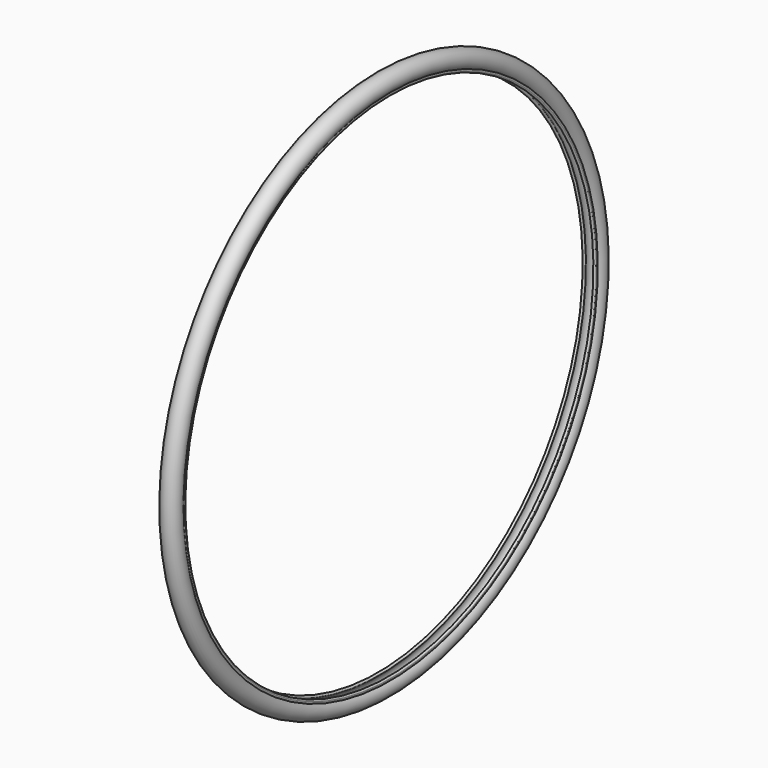
from build123d import *


with BuildPart() as f2:
    # F0 (on Front) → F2 (revolve)
    with BuildSketch(Plane.XZ):
        with BuildLine():
            ThreePointArc((17.3861277255, 646.5553913846), (14.732817138, 643.759846029), (11.636430024, 641.4647386789))
            ThreePointArc((11.636430024, 641.4647386789), (11.8528049586, 635.9330798015), (16.4650742742, 638.9946218655))
            add(Edge.make_bspline(
                [(16.4650742742, 638.9946218655), (16.4612804679, 639.0351080649), (16.4574920025, 639.0755923051), (16.4537137636, 639.1160720697)],
                knots=[0, 0, 0, 0, 0.0059075116, 0.0059075116, 0.0059075116, 0.0059075116], degree=3))
            add(Edge.make_bspline(
                [(16.4537137636, 639.1160720697), (16.3124581342, 640.6294741643), (16.1854967271, 642.1366204378), (16.328142176, 643.5060129607)],
                knots=[0.0059075116, 0.0059075116, 0.0059075116, 0.0059075116, 0.2267694767, 0.2267694767, 0.2267694767, 0.2267694767], degree=3))
            add(Edge.make_bspline(
                [(16.328142176, 643.5060129607), (16.446514152, 644.6423807885), (16.7505437944, 645.6838881212), (17.3861277255, 646.5553913846)],
                knots=[0.2267694767, 0.2267694767, 0.2267694767, 0.2267694767, 0.4100481404, 0.4100481404, 0.4100481404, 0.4100481404], degree=3))
        make_face()
        with BuildLine():
            add(Edge.make_bspline(
                [(16.4650742742, 638.9946218655), (16.4612804679, 639.0351080649), (16.4574920025, 639.0755923051), (16.4537137636, 639.1160720697)],
                knots=[0, 0, 0, 0, 0.0059075116, 0.0059075116, 0.0059075116, 0.0059075116], degree=3))
            ThreePointArc((16.4650742742, 638.9946218655), (16.4599773224, 639.0554015301), (16.4537137636, 639.1160720697))
        make_face()
        with BuildLine():
            ThreePointArc((17.5899966415, 646.8153526674), (17.4885452197, 646.6849932155), (17.3861277255, 646.5553913846))
            add(Edge.make_bspline(
                [(16.328142176, 643.5060129607), (16.446514152, 644.6423807885), (16.7505437944, 645.6838881212), (17.3861277255, 646.5553913846)],
                knots=[0.2267694767, 0.2267694767, 0.2267694767, 0.2267694767, 0.4100481404, 0.4100481404, 0.4100481404, 0.4100481404], degree=3))
            ThreePointArc((16.328142176, 643.5060129607), (18.5517955015, 645.9831380435), (20.4030524121, 648.7496576329))
            add(Edge.make_bspline(
                [(17.5899966415, 646.8153526674), (18.2521343995, 647.6014429883), (19.2203412774, 648.2305666695), (20.4030524121, 648.7496576329)],
                knots=[0.4286451816, 0.4286451816, 0.4286451816, 0.4286451816, 0.6009347229, 0.6009347229, 0.6009347229, 0.6009347229], degree=3))
        make_face()
        with BuildLine():
            add(Edge.make_bspline(
                [(17.3861277255, 646.5553913846), (17.4506195778, 646.6438216564), (17.5185250766, 646.7305015851), (17.5899966415, 646.8153526674)],
                knots=[0.4100481404, 0.4100481404, 0.4100481404, 0.4100481404, 0.4286451816, 0.4286451816, 0.4286451816, 0.4286451816], degree=3))
            ThreePointArc((17.3861277255, 646.5553913846), (17.4885452197, 646.6849932155), (17.5899966415, 646.8153526674))
        make_face()
        with BuildLine():
            ThreePointArc((-18.1170965421, 647.5267161189), (0.4426828056, 682.6205908322), (17.5899966415, 646.8153526674))
            add(Edge.make_bspline(
                [(17.5899966415, 646.8153526674), (18.2521343995, 647.6014429883), (19.2203412774, 648.2305666695), (20.4030524121, 648.7496576329)],
                knots=[0.4286451816, 0.4286451816, 0.4286451816, 0.4286451816, 0.6009347229, 0.6009347229, 0.6009347229, 0.6009347229], degree=3))
            ThreePointArc((20.4030524121, 648.7496576329), (0.6376068943, 683.8863467242), (-21.0051006165, 649.873805384))
            add(Edge.make_bspline(
                [(-18.1170965421, 647.5267161189), (-18.8956119163, 648.3197608534), (-19.8746342245, 649.1012057792), (-21.0051006165, 649.873805384)],
                knots=[0.4600616676, 0.4600616676, 0.4600616676, 0.4600616676, 0.5925769302, 0.5925769302, 0.5925769302, 0.5925769302], degree=3))
        make_face()
        with BuildLine():
            ThreePointArc((-16.7924014281, 645.840951979), (-17.475088335, 646.6678511265), (-18.1170965421, 647.5267161189))
            add(Edge.make_bspline(
                [(-18.1170965421, 647.5267161189), (-18.8956119163, 648.3197608534), (-19.8746342245, 649.1012057792), (-21.0051006165, 649.873805384)],
                knots=[0.4600616676, 0.4600616676, 0.4600616676, 0.4600616676, 0.5925769302, 0.5925769302, 0.5925769302, 0.5925769302], degree=3))
            ThreePointArc((-21.0051006165, 649.873805384), (-18.7909655473, 646.2962898923), (-15.9742760611, 643.1710264576))
            add(Edge.make_bspline(
                [(-15.9742760611, 643.1710264576), (-16.0437133508, 644.0728937897), (-16.2808723289, 644.9648250164), (-16.7924014281, 645.840951979)],
                knots=[0.223954866, 0.223954866, 0.223954866, 0.223954866, 0.3671716426, 0.3671716426, 0.3671716426, 0.3671716426], degree=3))
        make_face()
        with BuildLine():
            add(Edge.make_bspline(
                [(-16.7924014281, 645.840951979), (-17.1241778578, 646.4092056249), (-17.5713759127, 646.9708107559), (-18.1170965421, 647.5267161189)],
                knots=[0.3671716426, 0.3671716426, 0.3671716426, 0.3671716426, 0.4600616676, 0.4600616676, 0.4600616676, 0.4600616676], degree=3))
            ThreePointArc((-18.1170965421, 647.5267161189), (-17.475088335, 646.6678511265), (-16.7924014281, 645.840951979))
        make_face()
        with BuildLine():
            ThreePointArc((-11.636430024, 641.4647386789), (-14.3818435934, 643.4555849952), (-16.7924014281, 645.840951979))
            add(Edge.make_bspline(
                [(-15.9742760611, 643.1710264576), (-16.0437133508, 644.0728937897), (-16.2808723289, 644.9648250164), (-16.7924014281, 645.840951979)],
                knots=[0.223954866, 0.223954866, 0.223954866, 0.223954866, 0.3671716426, 0.3671716426, 0.3671716426, 0.3671716426], degree=3))
            add(Edge.make_bspline(
                [(-16.2639206829, 639.8948440474), (-16.0488275791, 640.9944443275), (-15.8910351845, 642.0898749939), (-15.9742760611, 643.1710264576)],
                knots=[0.0522677208, 0.0522677208, 0.0522677208, 0.0522677208, 0.223954866, 0.223954866, 0.223954866, 0.223954866], degree=3))
            add(Edge.make_bspline(
                [(-16.4711148251, 638.8896967453), (-16.4001954811, 639.2249421262), (-16.3294027333, 639.5600863092), (-16.2639206829, 639.8948440474)],
                knots=[0, 0, 0, 0, 0.0522677208, 0.0522677208, 0.0522677208, 0.0522677208], degree=3))
            ThreePointArc((-16.4711148251, 638.8896967453), (-11.8062196089, 635.9573992712), (-11.636430024, 641.4647386789))
        make_face()
        with BuildLine():
            add(Edge.make_bspline(
                [(-16.4711148251, 638.8896967453), (-16.4001954811, 639.2249421262), (-16.3294027333, 639.5600863092), (-16.2639206829, 639.8948440474)],
                knots=[0, 0, 0, 0, 0.0522677208, 0.0522677208, 0.0522677208, 0.0522677208], degree=3))
            ThreePointArc((-16.2639206829, 639.8948440474), (-16.4083991803, 639.400697412), (-16.4711148251, 638.8896967453))
        make_face()
    revolve(axis=Axis((-33.6068943143, 0, 0), (-1, 0, 0)))


solid = f2.part
